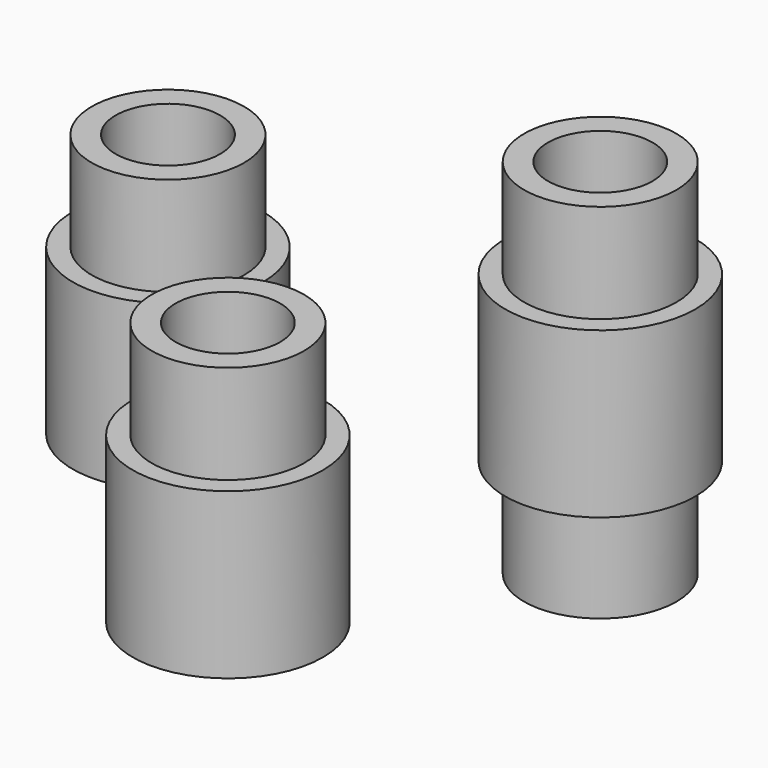
from build123d import *

# Parameters (mm, degrees)
F0_R     = 4.625
F0_R_2   = 3.175
F1_DEPTH = 16
F0_R_3   = 5.775
F2_DEPTH = 10
F3_DEPTH = 16
F4_DEPTH = 10
F5_DEPTH = 11
F6_DEPTH = 5


with BuildPart() as f1:
    # F0 (on Top) → F1 (new body)
    with BuildSketch(Plane.XY):
        with Locations((-47.260277, -15.804579)):
            Circle(F0_R)
        with Locations((-47.260277, -15.804579)):
            Circle(F0_R_2, mode=Mode.SUBTRACT)
    extrude(amount=F1_DEPTH)

    # F0 (on Top) → F2 (join)
    with BuildSketch(Plane.XY):
        with Locations((-47.260277, -15.804579)):
            Circle(F0_R_3)
        with Locations((-47.260277, -15.804579)):
            Circle(F0_R, mode=Mode.SUBTRACT)
    extrude(amount=F2_DEPTH)


with BuildPart() as f3:
    # F0 (on Top) → F3 (new body)
    with BuildSketch(Plane.XY):
        with Locations((-32.984041, -29.101774)):
            Circle(F0_R)
        with Locations((-32.984041, -29.101774)):
            Circle(F0_R_2, mode=Mode.SUBTRACT)
    extrude(amount=F3_DEPTH)

    # F0 (on Top) → F4 (join)
    with BuildSketch(Plane.XY):
        with Locations((-32.984041, -29.101774)):
            Circle(F0_R_3)
        with Locations((-32.984041, -29.101774)):
            Circle(F0_R, mode=Mode.SUBTRACT)
    extrude(amount=F4_DEPTH)


with BuildPart() as f5:
    # F0 (on Top) → F5 (new body, symmetric)
    with BuildSketch(Plane.XY):
        with Locations((-22.198977, -14.328902)):
            Circle(F0_R)
        with Locations((-22.198977, -14.328902)):
            Circle(F0_R_2, mode=Mode.SUBTRACT)
    extrude(amount=F5_DEPTH, both=True)

    # F0 (on Top) → F6 (join, symmetric)
    with BuildSketch(Plane.XY):
        with Locations((-22.198977, -14.328902)):
            Circle(F0_R_3)
        with Locations((-22.198977, -14.328902)):
            Circle(F0_R, mode=Mode.SUBTRACT)
    extrude(amount=F6_DEPTH, both=True)


with BuildPart() as f5_1:
    # F7: moved
    add(f5.part.moved(Location((0, 0, 11.1))))


solid = Compound([f1.part, f3.part, f5_1.part])
